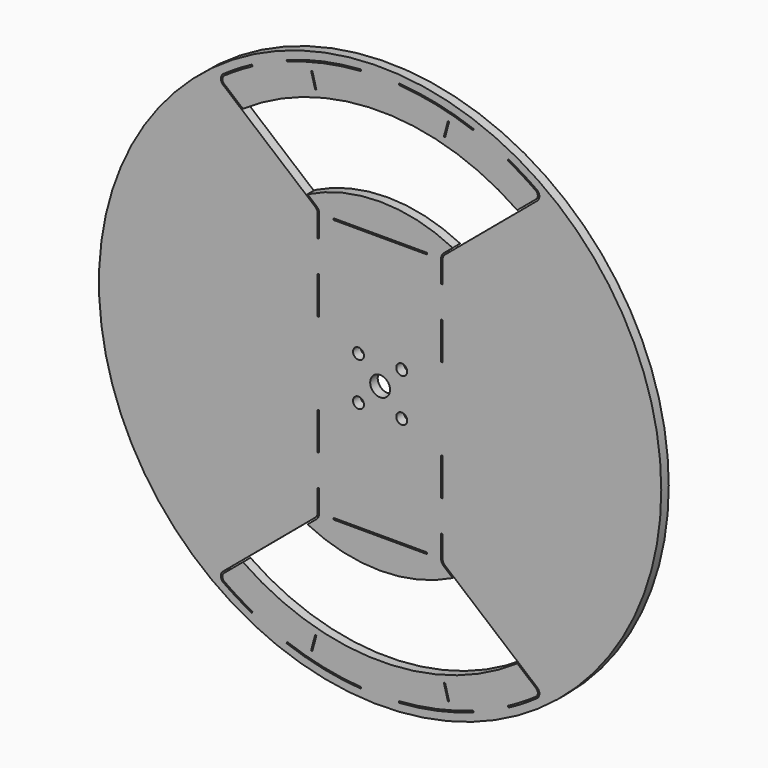
from build123d import *

# Parameters (mm, degrees)
F0_R     = 90
F0_R_2   = 1.75
F0_W     = 30
F0_H     = 0.5
F0_R_3   = 3.17
F1_DEPTH = 3


with BuildPart() as f1:
    # F0 (on Front) → F1 (new body)
    with BuildSketch(Plane.XZ):
        Circle(F0_R)
        with BuildLine():
            Line((-29.926763, -82.223104), (-29.755752, -81.753258))
            ThreePointArc((-29.755752, -81.753258), (-18.088317, -85.098841), (-6.068813, -86.788072))
            Line((-6.068813, -86.788072), (-6.103691, -87.286854))
            ThreePointArc((-6.103691, -87.286854), (-18.192273, -85.587915), (-29.926763, -82.223104))
        make_face(mode=Mode.SUBTRACT)
        Polygon((-20.795181, -76.835932), (-20.408811, -76.93946), (-21.702906, -81.769089), (-22.089276, -81.665561), align=None, mode=Mode.SUBTRACT)
        Polygon((-19.5, -25.15), (-20, -25.15), (-20, -15.15), (-20, -13.15), (-19.5, -13.15), (-19.5, -15.15), align=None, mode=Mode.SUBTRACT)
        with Locations((-6.914797, -6.914797)):
            Circle(F0_R_2, mode=Mode.SUBTRACT)
        with BuildLine():
            Line((6.103691, -87.286854), (6.068813, -86.788072))
            ThreePointArc((6.068813, -86.788072), (18.088317, -85.098841), (29.755752, -81.753258))
            Line((29.755752, -81.753258), (29.926763, -82.223104))
            ThreePointArc((29.926763, -82.223104), (18.192273, -85.587915), (6.103691, -87.286854))
        make_face(mode=Mode.SUBTRACT)
        Polygon((22.089276, -81.665561), (21.702906, -81.769089), (20.408811, -76.93946), (20.795181, -76.835932), align=None, mode=Mode.SUBTRACT)
        with BuildLine():
            ThreePointArc((-41.078762, -77.257914), (-45.686982, -74.625396), (-50.127129, -71.718345))
            ThreePointArc((-50.127129, -71.718345), (-50.979425, -70.167154), (-50.266941, -68.546979))
            Line((-50.266941, -68.546979), (-44.332839, -63.567676))
            Line((-44.332839, -63.567676), (-23.722514, -46.27356))
            Line((-23.722514, -46.27356), (-20.714425, -43.749474))
            ThreePointArc((-20.714425, -43.749474), (-20.187384, -43.062621), (-20, -42.217385))
            Line((-20, -42.217385), (-20, -35.15))
            Line((-20, -35.15), (-19.5, -35.15))
            Line((-19.5, -35.15), (-19.5, -42.217385))
            ThreePointArc((-19.5, -42.217385), (-19.734231, -43.27393), (-20.393031, -44.132496))
            Line((-20.393031, -44.132496), (-23.237294, -46.519116))
            ThreePointArc((-23.237294, -46.519116), (0, -52), (23.237294, -46.519116))
            Line((23.237294, -46.519116), (20.393031, -44.132496))
            ThreePointArc((20.393031, -44.132496), (19.734231, -43.27393), (19.5, -42.217385))
            Line((19.5, -42.217385), (19.5, -35.15))
            Line((19.5, -35.15), (20, -35.15))
            Line((20, -35.15), (20, -42.217385))
            ThreePointArc((20, -42.217385), (20.187384, -43.062621), (20.714425, -43.749474))
            Line((20.714425, -43.749474), (23.722514, -46.27356))
            Line((23.722514, -46.27356), (44.332839, -63.567676))
            Line((44.332839, -63.567676), (50.266941, -68.546979))
            ThreePointArc((50.266941, -68.546979), (50.979425, -70.167154), (50.127129, -71.718345))
            ThreePointArc((50.127129, -71.718345), (45.686982, -74.625396), (41.078762, -77.257914))
            Line((41.078762, -77.257914), (40.844026, -76.816441))
            ThreePointArc((40.844026, -76.816441), (45.425914, -74.198965), (49.840688, -71.308525))
            ThreePointArc((49.840688, -71.308525), (50.47991, -70.145133), (49.945547, -68.930001))
            Line((49.945547, -68.930001), (43.906667, -63.862779))
            ThreePointArc((43.906667, -63.862779), (0, -77.5), (-43.906667, -63.862779))
            Line((-43.906667, -63.862779), (-49.945547, -68.930001))
            ThreePointArc((-49.945547, -68.930001), (-50.47991, -70.145133), (-49.840688, -71.308525))
            ThreePointArc((-49.840688, -71.308525), (-45.425914, -74.198965), (-40.844026, -76.816441))
            Line((-40.844026, -76.816441), (-41.078762, -77.257914))
        make_face(mode=Mode.SUBTRACT)
        with Locations((0, -42.217385)):
            Rectangle(F0_W, F0_H, mode=Mode.SUBTRACT)
        Polygon((20, -13.15), (20, -15.15), (20, -25.15), (19.5, -25.15), (19.5, -15.15), (19.5, -13.15), align=None, mode=Mode.SUBTRACT)
        with Locations((6.914797, -6.914797)):
            Circle(F0_R_2, mode=Mode.SUBTRACT)
        with Locations((-6.914797, 6.914797)):
            Circle(F0_R_2, mode=Mode.SUBTRACT)
        Polygon((-19.5, 25.15), (-19.5, 15.15), (-19.5, 13.15), (-20, 13.15), (-20, 15.15), (-20, 25.15), align=None, mode=Mode.SUBTRACT)
        Polygon((-21.702906, 81.769089), (-20.408811, 76.93946), (-20.795181, 76.835932), (-22.089276, 81.665561), align=None, mode=Mode.SUBTRACT)
        with BuildLine():
            Line((-6.103691, 87.286854), (-6.068813, 86.788072))
            ThreePointArc((-6.068813, 86.788072), (-18.088317, 85.098841), (-29.755752, 81.753258))
            Line((-29.755752, 81.753258), (-29.926763, 82.223104))
            ThreePointArc((-29.926763, 82.223104), (-18.192273, 85.587915), (-6.103691, 87.286854))
        make_face(mode=Mode.SUBTRACT)
        Circle(F0_R_3, mode=Mode.SUBTRACT)
        with Locations((6.914797, 6.914797)):
            Circle(F0_R_2, mode=Mode.SUBTRACT)
        Polygon((20, 25.15), (20, 15.15), (20, 13.15), (19.5, 13.15), (19.5, 15.15), (19.5, 25.15), align=None, mode=Mode.SUBTRACT)
        with Locations((0, 42.217385)):
            Rectangle(F0_W, F0_H, mode=Mode.SUBTRACT)
        with BuildLine():
            ThreePointArc((20.714425, 43.749474), (20.187384, 43.062621), (20, 42.217385))
            Line((20, 42.217385), (20, 35.15))
            Line((20, 35.15), (19.5, 35.15))
            Line((19.5, 35.15), (19.5, 42.217385))
            ThreePointArc((19.5, 42.217385), (19.734231, 43.27393), (20.393031, 44.132496))
            Line((20.393031, 44.132496), (23.237294, 46.519116))
            ThreePointArc((23.237294, 46.519116), (0, 52), (-23.237294, 46.519116))
            Line((-23.237294, 46.519116), (-20.393031, 44.132496))
            ThreePointArc((-20.393031, 44.132496), (-19.734231, 43.27393), (-19.5, 42.217385))
            Line((-19.5, 42.217385), (-19.5, 35.15))
            Line((-19.5, 35.15), (-20, 35.15))
            Line((-20, 35.15), (-20, 42.217385))
            ThreePointArc((-20, 42.217385), (-20.187384, 43.062621), (-20.714425, 43.749474))
            Line((-20.714425, 43.749474), (-23.722514, 46.27356))
            Line((-23.722514, 46.27356), (-44.332839, 63.567676))
            Line((-44.332839, 63.567676), (-50.266941, 68.546979))
            ThreePointArc((-50.266941, 68.546979), (-50.979425, 70.167154), (-50.127129, 71.718345))
            ThreePointArc((-50.127129, 71.718345), (-45.686982, 74.625396), (-41.078762, 77.257914))
            Line((-41.078762, 77.257914), (-40.844026, 76.816441))
            ThreePointArc((-40.844026, 76.816441), (-45.425914, 74.198965), (-49.840688, 71.308525))
            ThreePointArc((-49.840688, 71.308525), (-50.47991, 70.145133), (-49.945547, 68.930001))
            Line((-49.945547, 68.930001), (-43.906667, 63.862779))
            ThreePointArc((-43.906667, 63.862779), (0, 77.5), (43.906667, 63.862779))
            Line((43.906667, 63.862779), (49.945547, 68.930001))
            ThreePointArc((49.945547, 68.930001), (50.47991, 70.145133), (49.840688, 71.308525))
            ThreePointArc((49.840688, 71.308525), (45.425914, 74.198965), (40.844026, 76.816441))
            Line((40.844026, 76.816441), (41.078762, 77.257914))
            ThreePointArc((41.078762, 77.257914), (45.686982, 74.625396), (50.127129, 71.718345))
            ThreePointArc((50.127129, 71.718345), (50.979425, 70.167154), (50.266941, 68.546979))
            Line((50.266941, 68.546979), (44.332839, 63.567676))
            Line((44.332839, 63.567676), (23.722514, 46.27356))
            Line((23.722514, 46.27356), (20.714425, 43.749474))
        make_face(mode=Mode.SUBTRACT)
        Polygon((20.795181, 76.835932), (20.408811, 76.93946), (21.702906, 81.769089), (22.089276, 81.665561), align=None, mode=Mode.SUBTRACT)
        with BuildLine():
            Line((29.926763, 82.223104), (29.755752, 81.753258))
            ThreePointArc((29.755752, 81.753258), (18.088317, 85.098841), (6.068813, 86.788072))
            Line((6.068813, 86.788072), (6.103691, 87.286854))
            ThreePointArc((6.103691, 87.286854), (18.192273, 85.587915), (29.926763, 82.223104))
        make_face(mode=Mode.SUBTRACT)
    extrude(amount=F1_DEPTH)


solid = f1.part
